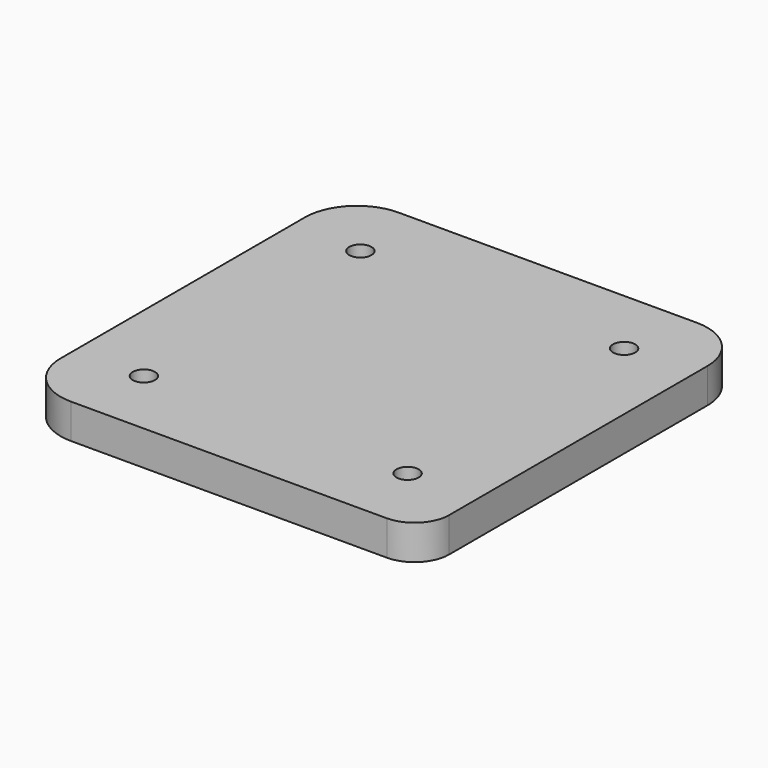
from build123d import *

# Parameters (mm, degrees)
F0_W     = 5.3
F0_H     = 5.3
F0_R     = 1.6
F1_DEPTH = 5
F2_DEPTH = 2.3


with BuildPart() as f1:
    # F0 (on Top) → F1 (new body)
    with BuildSketch(Plane.XY):
        with BuildLine():
            ThreePointArc((29, 22), (26.803301, 27.303301), (21.5, 29.5))
            Line((21.5, 29.5), (-21.5, 29.5))
            ThreePointArc((-21.5, 29.5), (-26.803301, 27.303301), (-29, 22))
            Line((-29, 22), (-29, -22))
            ThreePointArc((-29, -22), (-26.803301, -27.303301), (-21.5, -29.5))
            Line((-21.5, -29.5), (24, -29.5))
            ThreePointArc((24, -29.5), (27.535534, -28.035534), (29, -24.5))
            Line((29, -24.5), (29, 22))
        make_face()
        with Locations((-19, -19.5)):
            Rectangle(F0_W, F0_H, mode=Mode.SUBTRACT)
        with Locations((19, -19.5)):
            Rectangle(F0_W, F0_H, mode=Mode.SUBTRACT)
        with Locations((-19, 19.5)):
            Rectangle(F0_W, F0_H, mode=Mode.SUBTRACT)
        with Locations((19, 19.5)):
            Rectangle(F0_W, F0_H, mode=Mode.SUBTRACT)
        with Locations((-19, 19.5)):
            Rectangle(F0_W, F0_H)
        with Locations((-19, 19.5)):
            Circle(F0_R, mode=Mode.SUBTRACT)
        with Locations((19, 19.5)):
            Rectangle(F0_W, F0_H)
        with Locations((19, 19.5)):
            Circle(F0_R, mode=Mode.SUBTRACT)
        with Locations((19, -19.5)):
            Rectangle(F0_W, F0_H)
        with Locations((19, -19.5)):
            Circle(F0_R, mode=Mode.SUBTRACT)
        with Locations((-19, -19.5)):
            Rectangle(F0_W, F0_H)
        with Locations((-19, -19.5)):
            Circle(F0_R, mode=Mode.SUBTRACT)
    extrude(amount=F1_DEPTH)

    # F0 (on Top) → F2 (cut)
    with BuildSketch(Plane.XY):
        with Locations((-19, 19.5)):
            Rectangle(F0_W, F0_H)
        with Locations((-19, 19.5)):
            Circle(F0_R, mode=Mode.SUBTRACT)
        with Locations((19, 19.5)):
            Rectangle(F0_W, F0_H)
        with Locations((19, 19.5)):
            Circle(F0_R, mode=Mode.SUBTRACT)
        with Locations((-19, -19.5)):
            Rectangle(F0_W, F0_H)
        with Locations((-19, -19.5)):
            Circle(F0_R, mode=Mode.SUBTRACT)
        with Locations((19, -19.5)):
            Rectangle(F0_W, F0_H)
        with Locations((19, -19.5)):
            Circle(F0_R, mode=Mode.SUBTRACT)
    extrude(amount=F2_DEPTH, mode=Mode.SUBTRACT)


solid = f1.part
